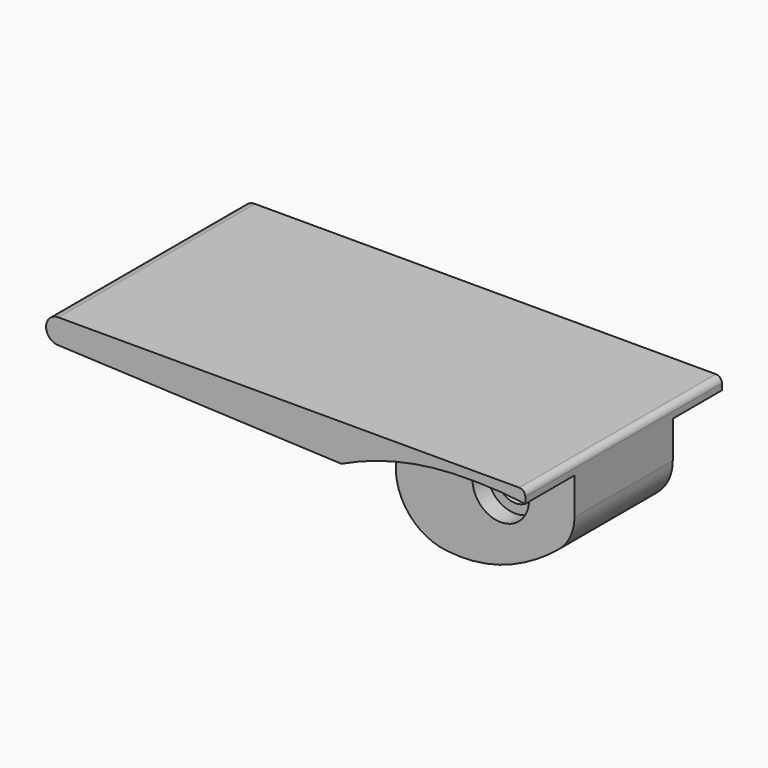
from build123d import *

# Parameters (mm, degrees)
SKETCH130_R     = 3.1
PAD039_DEPTH    = 20
POCKET048_DEPTH = 10
SKETCH131_R     = 4.6
POCKET047_DEPTH = 3


with BuildPart() as part:
    # Sketch130 → Pad039 (new body, symmetric)
    with BuildSketch(Plane.XZ):
        with BuildLine():
            Line((-64, 8), (11, 8))
            ThreePointArc((12, 7), (11.707107, 7.707107), (11, 8))
            Line((12, 7), (12, 0))
            ThreePointArc((9.499513, -5.362311), (11.344155, -2.958328), (12, 0))
            ThreePointArc((1.937819, -9.996123), (5.890842, -7.960183), (9.499513, -5.362311))
            ThreePointArc((-8.966462, -11.52862), (-3.413443, -11.48016), (1.937819, -9.996123))
            ThreePointArc((-17.077228, -2.032133), (-14.868336, -8.357429), (-8.966462, -11.52862))
            Line((-16.97253, 0.96604), (-17.077228, -2.032133))
            ThreePointArc((-16.97253, 0.96604), (-17.237697, 1.679846), (-17.928591, 2))
            Line((-17.928591, 2), (-64.086659, 4.001878))
            ThreePointArc((-64, 8), (-65.99953, 6.04334), (-64.086659, 4.001878))
        make_face()
        Circle(SKETCH130_R, mode=Mode.SUBTRACT)
    extrude(amount=PAD039_DEPTH, both=True)

    # Sketch133 → Pocket048 (cut)
    with BuildSketch(Plane.XZ.offset(20)):
        with BuildLine():
            Line((12, 6), (12, -34))
            Line((12, -34), (-17.928591, -34))
            Line((-17.928591, 2), (-17.928591, -34))
            ThreePointArc((0, 6.5), (-9.19194, 5.156963), (-17.928591, 2))
            ThreePointArc((12, 6), (6.010743, 6.507841), (0, 6.5))
        make_face()
    pocket048 = extrude(amount=-POCKET048_DEPTH, mode=Mode.SUBTRACT)

    # Sketch131 → Pocket047 (cut)
    with BuildSketch(Plane.XZ.offset(10)):
        Circle(SKETCH131_R)
    pocket047 = extrude(amount=-POCKET047_DEPTH, mode=Mode.SUBTRACT)

    # Mirrored009: Pocket047, Pocket048 across XZ
    add(pocket047.mirror(Plane.XZ), mode=Mode.SUBTRACT)
    add(pocket048.mirror(Plane.XZ), mode=Mode.SUBTRACT)


solid = part.part
